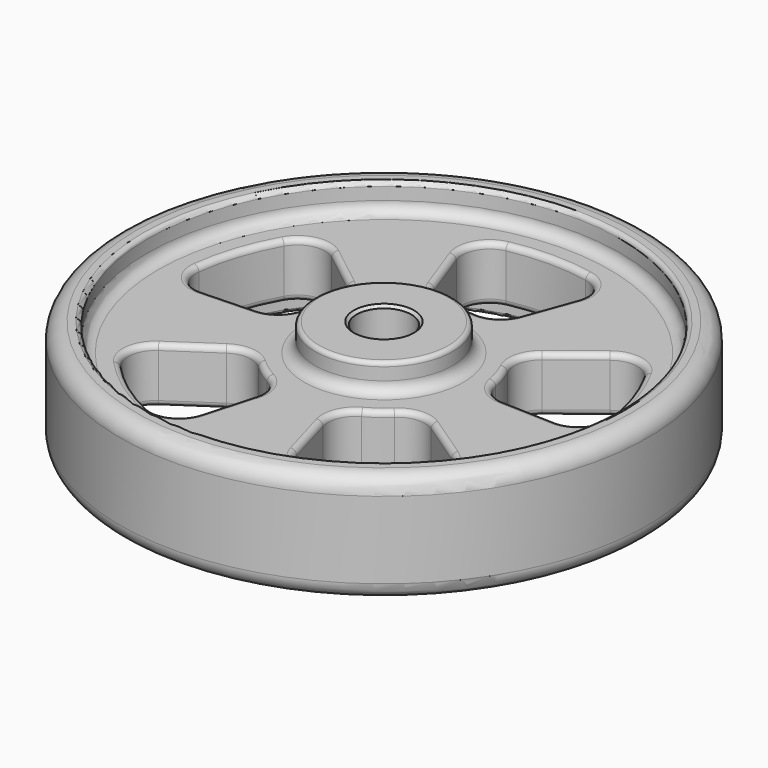
from build123d import *

# Parameters (mm, degrees)
F2_R     = 2
F3_R     = 3
F4_R     = 0.75
F6_DEPTH = 25
F7_R     = 5
F8_R     = 1
F9_SIZE  = 0.5


with BuildPart() as f1:
    # F0 (on Front) → F1 (revolve)
    with BuildSketch(Plane.XZ):
        Polygon((-5, -20), (-5, 0), (-12.5, 0), (-12.5, -5), (-43, -5), (-43, 0), (-48, 0), (-48, -20), (-43, -20), (-43, -15), (-12.5, -15), (-12.5, -20), align=None)
    revolve(axis=Axis((0, 0, -8.972), (0, 0, -1)))

    # F2
    f2_edges = [f1.edges().sort_by_distance(p)[0] for p in [
        (12.5, 0, -5),
        (43, 0, -5),
        (12.5, 0, -15),
        (43, 0, -15),
    ]]
    fillet(f2_edges, radius=F2_R)

    # F3
    f3_edges = [f1.edges().sort_by_distance(p)[0] for p in [
        (48, 0, 0),
        (48, 0, -20),
    ]]
    fillet(f3_edges, radius=F3_R)

    # F4
    f4_edges = [f1.edges().sort_by_distance(p)[0] for p in [
        (-43, 0, -18.5),
        (43, 0, -17),
        (43, 0, -20),
        (-43, 0, -1.5),
        (43, 0, -3),
        (43, 0, 0),
        (12.5, 0, -20),
        (12.5, 0, 0),
    ]]
    fillet(f4_edges, radius=F4_R)

    # F5 (on Top) → F6 (cut)
    with BuildSketch(Plane.XY):
        with BuildLine():
            Line((-14.1841935649, 11.0819065559), (-29.5504032603, 23.0873053247))
            ThreePointArc((-29.5504032603, 23.0873053247), (-35.6646193611, 11.5881372891), (-37.4771560132, -1.3087311263))
            Line((-37.4771560132, -1.3087311263), (-17.9890348863, -0.6281909406))
            ThreePointArc((-17.9890348863, -0.6281909406), (-17.1190172933, 5.5623058987), (-14.1841935649, 11.0819065559))
        make_face()
        with BuildLine():
            ThreePointArc((-6.1563625799, 16.9144671741), (0, 18), (6.1563625799, 16.9144671741))
            Line((6.1563625799, 16.9144671741), (12.8257553747, 35.2384732795))
            ThreePointArc((12.8257553747, 35.2384732795), (0, 37.5), (-12.8257553747, 35.2384732795))
            Line((-12.8257553747, 35.2384732795), (-6.1563625799, 16.9144671741))
        make_face()
        with BuildLine():
            Line((17.9890348863, -0.6281909406), (37.4771560132, -1.3087311263))
            ThreePointArc((37.4771560132, -1.3087311263), (35.6646193611, 11.5881372891), (29.5504032603, 23.0873053247))
            Line((29.5504032603, 23.0873053247), (14.1841935649, 11.0819065559))
            ThreePointArc((14.1841935649, 11.0819065559), (17.1190172933, 5.5623058987), (17.9890348863, -0.6281909406))
        make_face()
        with BuildLine():
            Line((4.9614724047, -17.3027105269), (10.3364008431, -36.0473135977))
            ThreePointArc((10.3364008431, -36.0473135977), (22.041946961, -30.3381372891), (31.0889089708, -20.9697338802))
            Line((31.0889089708, -20.9697338802), (14.922676306, -10.0654722625))
            ThreePointArc((14.922676306, -10.0654722625), (10.5801345413, -14.5623058987), (4.9614724047, -17.3027105269))
        make_face()
        with BuildLine():
            Line((-14.922676306, -10.0654722625), (-31.0889089708, -20.9697338802))
            ThreePointArc((-31.0889089708, -20.9697338802), (-22.041946961, -30.3381372891), (-10.3364008431, -36.0473135977))
            Line((-10.3364008431, -36.0473135977), (-4.9614724047, -17.3027105269))
            ThreePointArc((-4.9614724047, -17.3027105269), (-10.5801345413, -14.5623058987), (-14.922676306, -10.0654722625))
        make_face()
    extrude(amount=-F6_DEPTH, mode=Mode.SUBTRACT)

    # F7
    f7_edges = [f1.edges().sort_by_distance(p)[0] for p in [
        (-29.550403, 23.087305, -10),
        (29.550403, 23.087305, -10),
        (-14.922676, -10.065472, -10),
        (14.922676, -10.065472, -10),
        (4.961472, -17.302711, -10),
        (-31.088909, -20.969734, -10),
        (-12.825755, 35.238473, -10),
        (12.825755, 35.238473, -10),
        (31.088909, -20.969734, -10),
        (-10.336401, -36.047314, -10),
        (37.477156, -1.308731, -10),
        (10.336401, -36.047314, -10),
        (-37.477156, -1.308731, -10),
        (17.989035, -0.628191, -10),
        (-6.156363, 16.914467, -10),
        (-4.961472, -17.302711, -10),
        (-14.184194, 11.081907, -10),
        (14.184194, 11.081907, -10),
        (6.156363, 16.914467, -10),
        (-17.989035, -0.628191, -10),
    ]]
    fillet(f7_edges, radius=F7_R)

    # F8
    f8_edges = [f1.edges().sort_by_distance(p)[0] for p in [
        (-21.498126, 16.796176, -5),
        (10.639858, 34.342941, -5),
        (35.664619, 11.588137, -5),
        (22.617399, -15.255628, -5),
        (-22.617399, -15.255628, -5),
        (22.041947, -30.338137, -15),
        (35.664619, 11.588137, -15),
        (-7.519804, -26.224673, -15),
        (-27.264894, -0.952111, -15),
        (9.330827, 25.636236, -15),
    ]]
    fillet(f8_edges, radius=F8_R)

    # F9
    f9_edges = [f1.edges().sort_by_distance(p)[0] for p in [
        (11.75, 0, -20),
        (5, 0, -20),
        (5, 0, 0),
        (-5, 0, -10),
    ]]
    chamfer(f9_edges, length=F9_SIZE)


solid = f1.part
